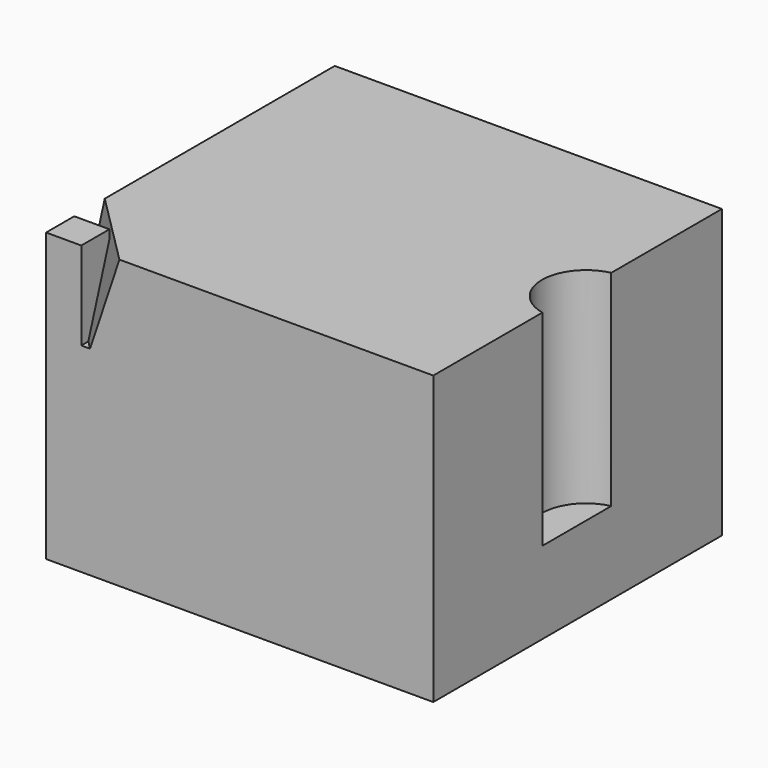
from build123d import *

# Parameters (mm, degrees)
F0_W     = 13.2
F0_H     = 12.3
F1_DEPTH = 9.8
F6_W     = 1.2
F6_H     = 1.2
F7_DEPTH = 3
F9_DEPTH = 7


with BuildPart() as f1:
    # F0 (on Top) → F1 (new body)
    with BuildSketch(Plane.XY):
        Rectangle(F0_W, F0_H)
    extrude(amount=F1_DEPTH)

    # F3 (on face) → F5 section 0
    with BuildSketch(Plane.XY.offset(9.8)):
        Polygon((-6.6, -3.65), (-6.6, -6.15), (-4.1, -6.15), align=None)
    # F4 (on offset) → F5 section 1
    with BuildSketch(Plane.XY.offset(6.8)):
        Polygon((-6.6, -6.15), (-5.1, -6.15), (-6.6, -4.65), align=None)
    loft(mode=Mode.SUBTRACT)

    # F6 (on face) → F7 (join)
    with BuildSketch(Plane.XY.offset(6.8)):
        with Locations((-6, -5.55)):
            Rectangle(F6_W, F6_H)
    extrude(amount=F7_DEPTH)

    # F8 (on face) → F9 (cut)
    with BuildSketch(Plane.XY.offset(9.8)):
        with BuildLine():
            Line((6.6, -1.5), (6.6, 1.433861))
            ThreePointArc((6.6, 1.433861), (5.413233, -0.03307), (6.6, -1.5))
        make_face()
    extrude(amount=-F9_DEPTH, mode=Mode.SUBTRACT)


solid = f1.part
